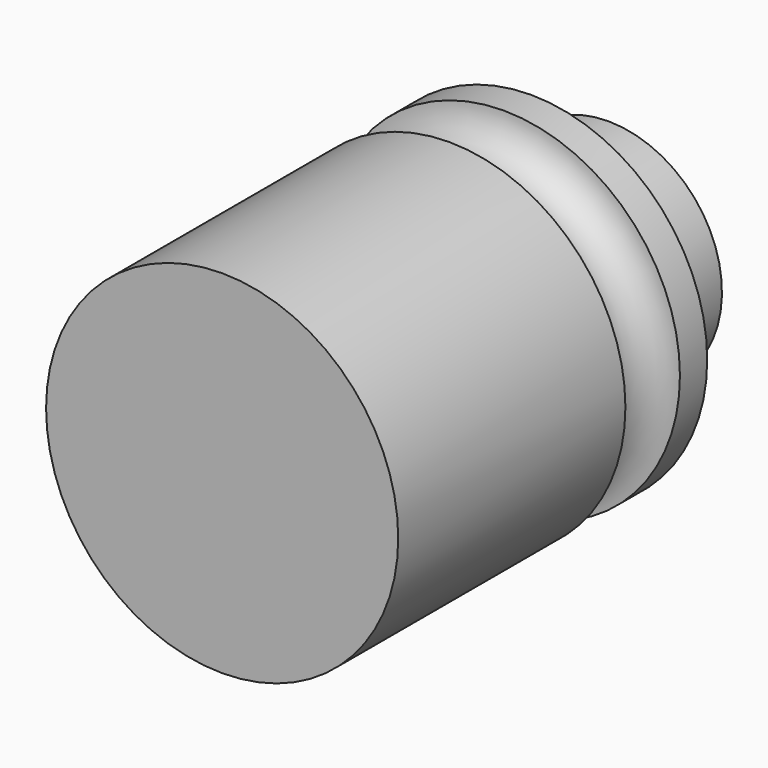
from build123d import *


with BuildPart() as f2:
    # F0 (on Right) → F2 (revolve)
    with BuildSketch(Plane.YZ):
        with BuildLine():
            Line((0, 0), (88, 0))
            Line((88, 0), (88, 16))
            Line((88, 16), (85, 16))
            Line((85, 16), (85, 20))
            Line((85, 20), (68, 20))
            Line((68, 20), (68, 31))
            Line((68, 31), (62, 31))
            ThreePointArc((62, 31), (56, 25), (50, 31))
            Line((50, 31), (0, 31))
            Line((0, 31), (0, 0))
        make_face()
    revolve(axis=Axis((0, 44, 0), (0, 1, 0)))


solid = f2.part
